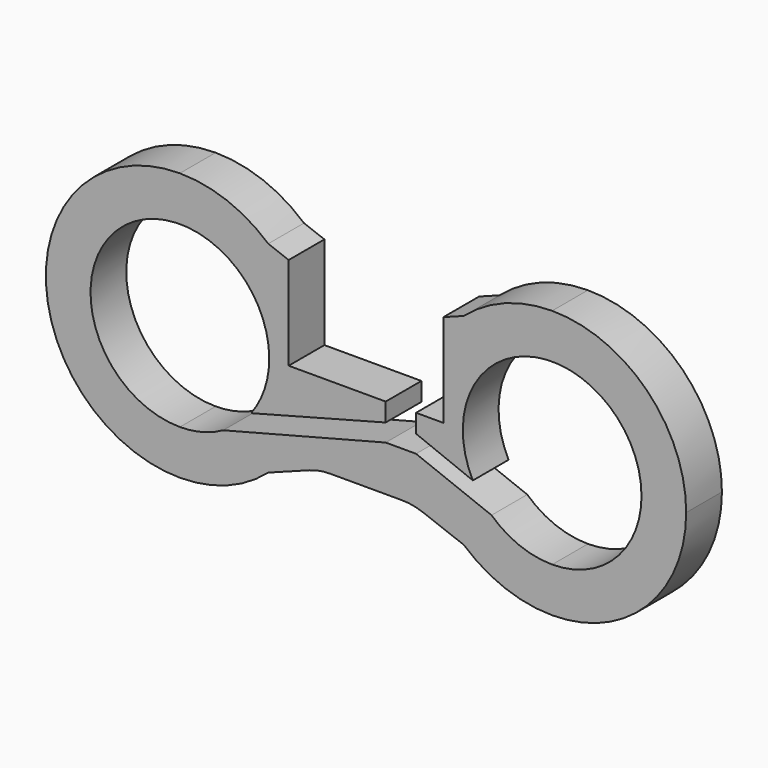
from build123d import *

# Parameters (mm, degrees)
F1_DEPTH = 19.05
F3_DEPTH = 25.4


with BuildPart() as f1:
    # F0 (on Front) → F1 (new body)
    with BuildSketch(Plane.XZ):
        with BuildLine():
            Line((20.027097595, 36.4074036121), (2.6105293283, 42.9636023111))
            ThreePointArc((2.6105293283, 42.9636023111), (16.9814393634, 23.5834144733), (22.0743066938, 0))
            ThreePointArc((22.0743066938, 0), (16.9814393634, -23.5834144733), (2.6105293283, -42.9636023111))
            Line((2.6105293283, -42.9636023111), (20.027097595, -36.4074036121))
            ThreePointArc((20.027097595, -36.4074036121), (24.4278254251, -35.189367606), (28.975523916, -34.7789341976))
            Line((28.975523916, -34.7789341976), (59.6230894717, -34.7789341976))
            ThreePointArc((59.6230894717, -34.7789341976), (64.1707879626, -35.189367606), (68.5715157927, -36.4074036121))
            Line((68.5715157927, -36.4074036121), (85.9880840594, -42.9636023111))
            ThreePointArc((85.9880840594, -42.9636023111), (66.5243066938, 0), (85.9880840594, 42.9636023111))
            Line((85.9880840594, 42.9636023111), (68.5715157927, 36.4074036121))
            ThreePointArc((68.5715157927, 36.4074036121), (64.1707879626, 35.189367606), (59.6230894717, 34.7789341976))
            Line((59.6230894717, 34.7789341976), (28.975523916, 34.7789341976))
            ThreePointArc((28.975523916, 34.7789341976), (24.4278254251, 35.189367606), (20.027097595, 36.4074036121))
        make_face()
        with BuildLine():
            ThreePointArc((2.6105293283, 42.9636023111), (-14.941734084, 53.4859438174), (-35.0756933062, 57.15))
            Line((-35.0756933062, 57.15), (2.6105293283, 42.9636023111))
        make_face()
        with BuildLine():
            Line((123.6743066938, 57.15), (85.9880840594, 42.9636023111))
            ThreePointArc((85.9880840594, 42.9636023111), (66.5243066938, 0), (85.9880840594, -42.9636023111))
            Line((85.9880840594, -42.9636023111), (123.6743066938, -57.15))
            ThreePointArc((123.6743066938, -57.15), (164.0854592386, -40.4111525448), (180.8243066938, 0))
            ThreePointArc((180.8243066938, 0), (164.0854592386, 40.4111525448), (123.6743066938, 57.15))
        make_face()
        with BuildLine():
            ThreePointArc((123.6743066938, 57.15), (103.5403474717, 53.4859438174), (85.9880840594, 42.9636023111))
            Line((85.9880840594, 42.9636023111), (123.6743066938, 57.15))
        make_face()
        with BuildLine():
            Line((2.6105293283, 42.9636023111), (-35.0756933062, 57.15))
            ThreePointArc((-35.0756933062, 57.15), (-92.2256933062, 0), (-35.0756933062, -57.15))
            Line((-35.0756933062, -57.15), (2.6105293283, -42.9636023111))
            ThreePointArc((2.6105293283, -42.9636023111), (16.9814393634, -23.5834144733), (22.0743066938, 0))
            ThreePointArc((22.0743066938, 0), (16.9814393634, 23.5834144733), (2.6105293283, 42.9636023111))
        make_face()
        with BuildLine():
            Line((2.6105293283, -42.9636023111), (-35.0756933062, -57.15))
            ThreePointArc((-35.0756933062, -57.15), (-14.941734084, -53.4859438174), (2.6105293283, -42.9636023111))
        make_face()
        with BuildLine():
            Line((123.6743066938, -57.15), (85.9880840594, -42.9636023111))
            ThreePointArc((85.9880840594, -42.9636023111), (103.5403474717, -53.4859438174), (123.6743066938, -57.15))
        make_face()
    extrude(amount=F1_DEPTH)

    # F2 (on face) → F3 (cut)
    with BuildSketch(Plane.XZ.offset(19.05)):
        with BuildLine():
            ThreePointArc((-4.721551, -23.0268548625), (1.0359587044, -12.1473696358), (3.0243066938, 0))
            ThreePointArc((3.0243066938, 0), (-62.0164616694, 26.9407683632), (-35.0756933062, -38.1))
            Line((-35.0756933062, -38.1), (-35.0756933062, -31.0422573239))
            Line((-35.0756933062, -31.0422573239), (-4.721551, -23.0268548625))
        make_face()
        with BuildLine():
            Line((-35.0756933062, -31.0422573239), (-35.0756933062, -38.1))
            Line((-35.0756933062, -38.1), (-16.5966969086, -33.3187138428))
            ThreePointArc((-16.5966969086, -33.3187138428), (-10.1227486056, -28.7916750254), (-4.721551, -23.0268548625))
            Line((-4.721551, -23.0268548625), (-35.0756933062, -31.0422573239))
        make_face()
        with BuildLine():
            Line((-16.5966969086, -33.3187138428), (-35.0756933062, -38.1))
            ThreePointArc((-35.0756933062, -38.1), (-25.5319256385, -36.8853154888), (-16.5966969086, -33.3187138428))
        make_face()
        with BuildLine():
            Line((52.6924617589, -7.8659448773), (-4.721551, -23.0268548625))
            ThreePointArc((-4.721551, -23.0268548625), (-10.1227486056, -28.7916750254), (-16.5966969086, -33.3187138428))
            Line((-16.5966969086, -33.3187138428), (52.6924617589, -15.3907220811))
            Line((52.6924617589, -15.3907220811), (65.6350776553, -15.3907220811))
            Line((65.6350776553, -15.3907220811), (97.817716181, -27.9829720911))
            ThreePointArc((97.817716181, -27.9829720911), (93.3797600536, -23.1052038265), (89.8493835117, -17.5352380003))
            Line((89.8493835117, -17.5352380003), (65.6350776553, -7.8659448773))
            Line((65.6350776553, -7.8659448773), (65.6350776553, 0))
            Line((65.6350776553, 0), (52.6924617589, 0))
            Line((52.6924617589, 0), (52.6924617589, -7.8659448773))
        make_face()
        with BuildLine():
            Line((11.3188134617, 0), (52.6924617589, 0))
            Line((52.6924617589, 0), (65.6350776553, 0))
            Line((65.6350776553, 0), (77.279799926, 0))
            Line((77.279799926, 0), (77.279799926, 39.6855029616))
            Line((77.279799926, 39.6855029616), (68.5715157927, 36.4074036121))
            ThreePointArc((68.5715157927, 36.4074036121), (64.1707879626, 35.189367606), (59.6230894717, 34.7789341976))
            Line((59.6230894717, 34.7789341976), (28.975523916, 34.7789341976))
            ThreePointArc((28.975523916, 34.7789341976), (24.4278254251, 35.189367606), (20.027097595, 36.4074036121))
            Line((20.027097595, 36.4074036121), (11.3188134617, 39.6855029616))
            Line((11.3188134617, 39.6855029616), (11.3188134617, 0))
        make_face()
        with BuildLine():
            ThreePointArc((161.7743066938, 0), (114.6498835333, 37.0158045518), (89.8493835117, -17.5352380003))
            Line((89.8493835117, -17.5352380003), (123.6743066938, -31.0422573239))
            Line((123.6743066938, -31.0422573239), (123.6743066938, -38.1))
            ThreePointArc((123.6743066938, -38.1), (150.615075057, -26.9407683632), (161.7743066938, 0))
        make_face()
        with BuildLine():
            Line((123.6743066938, -38.1), (97.817716181, -27.9829720911))
            ThreePointArc((97.817716181, -27.9829720911), (109.791605888, -35.4807076922), (123.6743066938, -38.1))
        make_face()
        with BuildLine():
            ThreePointArc((89.8493835117, -17.5352380003), (93.3797600536, -23.1052038265), (97.817716181, -27.9829720911))
            Line((97.817716181, -27.9829720911), (123.6743066938, -38.1))
            Line((123.6743066938, -38.1), (123.6743066938, -31.0422573239))
            Line((123.6743066938, -31.0422573239), (89.8493835117, -17.5352380003))
        make_face()
    extrude(amount=-F3_DEPTH, mode=Mode.SUBTRACT)


solid = f1.part
